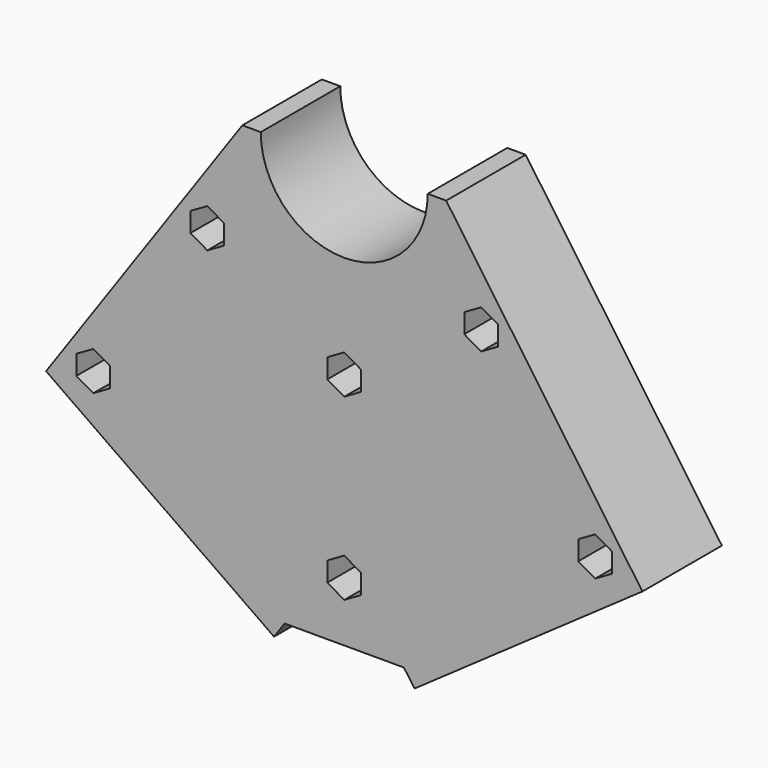
from build123d import *

# Parameters (mm, degrees)
F1_DEPTH = 25
F3_DEPTH = 50
F5_DEPTH = 50
F7_DEPTH = 25.001
F8_R     = 2.75
F9_DEPTH = 10


with BuildPart() as f1:
    # F0 (on Front) → F1 (new body)
    with BuildSketch(Plane.XZ):
        with BuildLine():
            Line((25.636266364, 0), (21, 0))
            ThreePointArc((21, 0), (0, -21), (-21, 0))
            Line((-21, 0), (-25.636266364, 0))
            Line((-25.636266364, 0), (-75, -70.4987177976))
            Line((-75, -70.4987177976), (-17.6593568998, -110.6490683422))
            Line((-17.6593568998, -110.6490683422), (-15, -106.8511130866))
            Line((-15, -106.8511130866), (15, -106.8511130866))
            Line((15, -106.8511130866), (17.6593568998, -110.6490683422))
            Line((17.6593568998, -110.6490683422), (75, -70.4987177976))
            Line((75, -70.4987177976), (25.636266364, 0))
        make_face()
    extrude(amount=F1_DEPTH)

    # F2 (on face) → F3 (cut)
    with BuildSketch(Plane(origin=(-57.7978070699, 0, -82.543822961), x_dir=(0.8191520443, 0, -0.5735764364), z_dir=(-0.5735764364, 0, -0.8191520443))):
        with BuildLine():
            ThreePointArc((34, 0), (14, 20), (-6, 0))
            Line((-6, 0), (34, 0))
        make_face()
    extrude(amount=-F3_DEPTH, mode=Mode.SUBTRACT)

    # F4 (on face) → F5 (cut)
    with BuildSketch(Plane(origin=(57.7978070699, 0, -82.543822961), x_dir=(0.8191520443, 0, 0.5735764364), z_dir=(0.5735764364, 0, -0.8191520443))):
        with BuildLine():
            ThreePointArc((6, 0), (-14, 20), (-34, 0))
            Line((-34, 0), (6, 0))
        make_face()
    extrude(amount=-F5_DEPTH, mode=Mode.SUBTRACT)

    # F6 (on face) → F7 (cut, through all)
    with BuildSketch(Plane(origin=(0, 0, 0), x_dir=(-1, 0, 0), z_dir=(0, 1, 0))):
        with BuildLine():
            ThreePointArc((-61.5432601044, -64.3563525056), (-65.5598750956, -67.8788293138), (-60.3705953043, -66.6090206274))
            ThreePointArc((-60.3705953043, -66.6090206274), (-60.6813155131, -65.339211941), (-61.5432601044, -64.3563525056))
        make_face()
        with BuildLine():
            ThreePointArc((36.0191086867, -27.9040865347), (36.881053278, -26.9212270993), (37.1917734868, -25.6514184129))
            ThreePointArc((37.1917734868, -25.6514184129), (32.0024936955, -24.3816097265), (36.0191086867, -27.9040865347))
        make_face()
        with BuildLine():
            ThreePointArc((65.8705953043, -66.6090206274), (64.3904039907, -64.1697408361), (61.5432601044, -64.3563525056))
            ThreePointArc((61.5432601044, -64.3563525056), (61.8507866179, -69.0483004186), (65.8705953043, -66.6090206274))
        make_face()
        with BuildLine():
            ThreePointArc((0, -49.6011130866), (1.9445436483, -48.7956567348), (2.75, -46.8511130866))
            ThreePointArc((2.75, -46.8511130866), (-1.9445436483, -44.9065694383), (0, -49.6011130866))
        make_face()
        with BuildLine():
            ThreePointArc((2.75, -91.8511130866), (1.9445436483, -89.9065694383), (0, -89.1011130866))
            ThreePointArc((0, -89.1011130866), (-1.9445436483, -93.7956567348), (2.75, -91.8511130866))
        make_face()
        with BuildLine():
            ThreePointArc((-31.6917734868, -25.6514184129), (-35.7115821732, -23.2121386217), (-36.0191086867, -27.9040865347))
            ThreePointArc((-36.0191086867, -27.9040865347), (-33.1719648004, -28.0906982041), (-31.6917734868, -25.6514184129))
        make_face()
    extrude(amount=-F7_DEPTH, mode=Mode.SUBTRACT)

    # F8 (on face) → F9 (cut)
    with BuildSketch(Plane.XZ.offset(25)):
        Polygon((-30.1917734868, -28.105157057), (-30.1917734868, -23.1976797689), (-34.4417734868, -20.7439411248), (-38.6917734868, -23.1976797689), (-38.6917734868, -28.105157057), (-34.4417734868, -30.558895701), align=None)
        with Locations((-34.4417734868, -25.6514184129)):
            Circle(F8_R, mode=Mode.SUBTRACT)
        Polygon((-58.8705953043, -69.0627592714), (-58.8705953043, -64.1552819833), (-63.1205953043, -61.7015433392), (-67.3705953043, -64.1552819833), (-67.3705953043, -69.0627592714), (-63.1205953043, -71.5164979155), align=None)
        with Locations((-63.1205953043, -66.6090206274)):
            Circle(F8_R, mode=Mode.SUBTRACT)
        Polygon((4.25, -94.3048517306), (4.25, -89.3973744425), (0, -86.9436357985), (-4.25, -89.3973744425), (-4.25, -94.3048517306), (0, -96.7585903747), align=None)
        with Locations((0, -91.8511130866)):
            Circle(F8_R, mode=Mode.SUBTRACT)
        Polygon((4.25, -49.3048517306), (4.25, -44.3973744425), (0, -41.9436357985), (-4.25, -44.3973744425), (-4.25, -49.3048517306), (0, -51.7585903747), align=None)
        with Locations((0, -46.8511130866)):
            Circle(F8_R, mode=Mode.SUBTRACT)
        Polygon((30.1917734868, -23.1976797689), (30.1917734868, -28.105157057), (34.4417734868, -30.558895701), (38.6917734868, -28.105157057), (38.6917734868, -23.1976797689), (34.4417734868, -20.7439411248), align=None)
        with Locations((34.4417734868, -25.6514184129)):
            Circle(F8_R, mode=Mode.SUBTRACT)
        Polygon((58.8705953043, -64.1552819833), (58.8705953043, -69.0627592714), (63.1205953043, -71.5164979155), (67.3705953043, -69.0627592714), (67.3705953043, -64.1552819833), (63.1205953043, -61.7015433392), align=None)
        with Locations((63.1205953043, -66.6090206274)):
            Circle(F8_R, mode=Mode.SUBTRACT)
    extrude(amount=-F9_DEPTH, mode=Mode.SUBTRACT)


solid = f1.part
